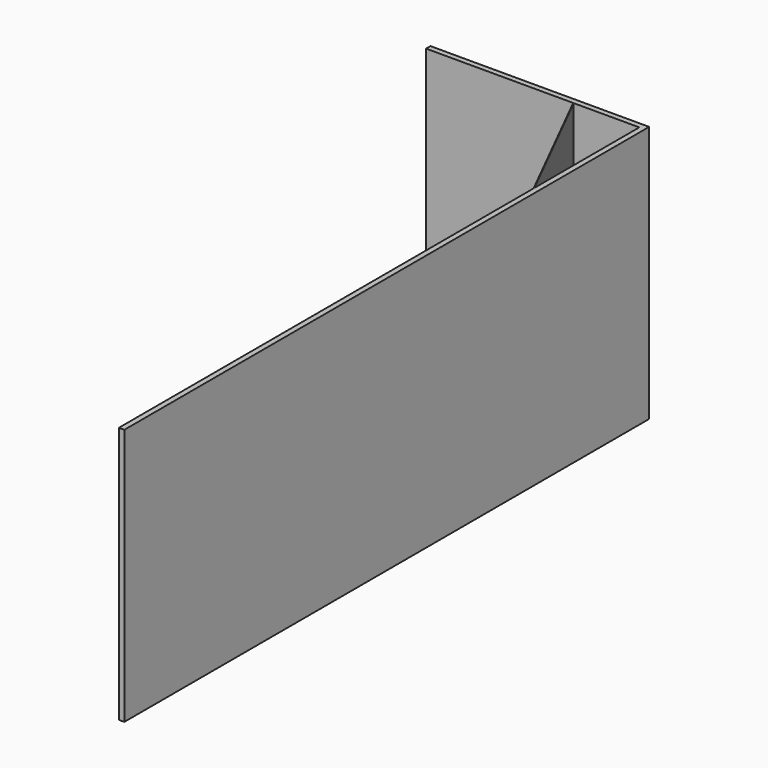
from build123d import *

# Parameters (mm, degrees)
F0_W           = 1950
F0_H           = 50
F0_W_2         = 50
F0_H_2         = 5950
F1_DEPTH       = 2352
F2_R           = 100
F2_R_2         = 50
F3_DEPTH       = 2200
F5_DEPTH       = 1800
F6_W           = 1950
F6_H           = 199.0381479263
F7_DEPTH       = 50.001
F8_W           = 10
F8_H           = 10
F8_W_2         = 90
F8_H_2         = 90
F9_DEPTH       = 100
F13_DEPTH      = 1200
F13_DEPTH_BACK = 25
F14_D          = 14
F14_DEPTH      = 12.75
F14_TIP        = 4.2060243332
F15_D          = 14
F15_DEPTH      = 12.75
F15_TIP        = 4.2060243332


with BuildPart() as f1:
    # F0 (on Top) → F1 (new body)
    with BuildSketch(Plane.XY):
        with Locations((975, -25)):
            Rectangle(F0_W, F0_H)
        with Locations((1975, -25)):
            Rectangle(F0_W_2, F0_H)
        with Locations((1975, -3025)):
            Rectangle(F0_W_2, F0_H_2)
    extrude(amount=F1_DEPTH)

    # F6 (on face) → F7 (cut, through all)
    with BuildSketch(Plane.XZ.offset(50)):
        with Locations((975, 99.5190739632)):
            Rectangle(F6_W, F6_H)
    extrude(amount=-F7_DEPTH, mode=Mode.SUBTRACT)


with BuildPart() as f3:
    # F2 (on face) → F3 (new body)
    with BuildSketch(Plane(origin=(1950, 0, 0), x_dir=(0, -1, 0), z_dir=(-1, 0, 0))):
        with Locations((260, 227)):
            Circle(F2_R)
        with Locations((260, 227)):
            Circle(F2_R_2, mode=Mode.SUBTRACT)
        with Locations((260, 227)):
            Circle(F2_R_2)
    extrude(amount=F3_DEPTH)


with BuildPart() as f5:
    # F4 (on face) → F5 (new body)
    with BuildSketch(Plane.XY.offset(2352)):
        Polygon((1350, -50), (1345.527864045, -50), (1950, -1258.94427191), (1950, -1250), align=None)
    extrude(amount=-F5_DEPTH)


with BuildPart() as f9:
    # F8 (on face) → F9 (new body)
    with BuildSketch(Plane(origin=(0, 0, 0), x_dir=(1, 0, 0), z_dir=(0, 0, -1))):
        with Locations((1945, 55)):
            Rectangle(F8_W, F8_H)
        with Locations((1895, 55)):
            Rectangle(F8_W_2, F8_H)
        with Locations((1945, 105)):
            Rectangle(F8_W, F8_H_2)
    extrude(amount=-F9_DEPTH)

    # F15
    with Locations(Plane.XZ.offset(60)):
        with Locations((1895, 59.0673498809)):
            Hole(F15_D / 2, depth=F15_DEPTH)
            with Locations((0, 0, -(F15_DEPTH + F15_TIP / 2))):  # 118° drill point
                Cone(0, F15_D / 2, F15_TIP, mode=Mode.SUBTRACT)


with BuildPart() as f13:
    # F12 (on line) → F13 (new body, two sides)
    with BuildSketch(Plane(origin=(1769.7879097987, 0, -442.1347269633), x_dir=(0, -1, 0), z_dir=(-0.9701827628, 0, 0.2423745176))) as f13_sk:
        with BuildLine():
            Line((60, 566.6058355899), (60, 545.4111338776))
            Line((60, 545.4111338776), (60, 516.6058355899))
            Line((60, 516.6058355899), (60, 466.6058355899))
            Line((60, 466.6058355899), (110, 466.6058355899))
            Line((110, 466.6058355899), (110, 476.6058355899))
            Line((110, 476.6058355899), (80, 476.6058355899))
            ThreePointArc((80, 476.6058355899), (72.9289321881, 479.534767778), (70, 486.6058355899))
            Line((70, 486.6058355899), (70, 516.6058355899))
            Line((70, 516.6058355899), (70, 546.6058355899))
            ThreePointArc((70, 546.6058355899), (72.9289321881, 553.6769034018), (80, 556.6058355899))
            Line((80, 556.6058355899), (110, 556.6058355899))
            Line((110, 556.6058355899), (110, 566.6058355899))
            Line((110, 566.6058355899), (60, 566.6058355899))
        make_face()
    extrude(amount=F13_DEPTH)
    extrude(f13_sk.sketch, amount=-F13_DEPTH_BACK)

    # F14
    with Locations(Plane(origin=(0, -60, 0), x_dir=(1, 0, 0), z_dir=(0, 1, 0))):
        with Locations((1895, -59.0673498809)):
            Hole(F14_D / 2, depth=F14_DEPTH)
            with Locations((0, 0, -(F14_DEPTH + F14_TIP / 2))):  # 118° drill point
                Cone(0, F14_D / 2, F14_TIP, mode=Mode.SUBTRACT)


solid = Compound([f1.part, f3.part, f5.part, f9.part, f13.part])
